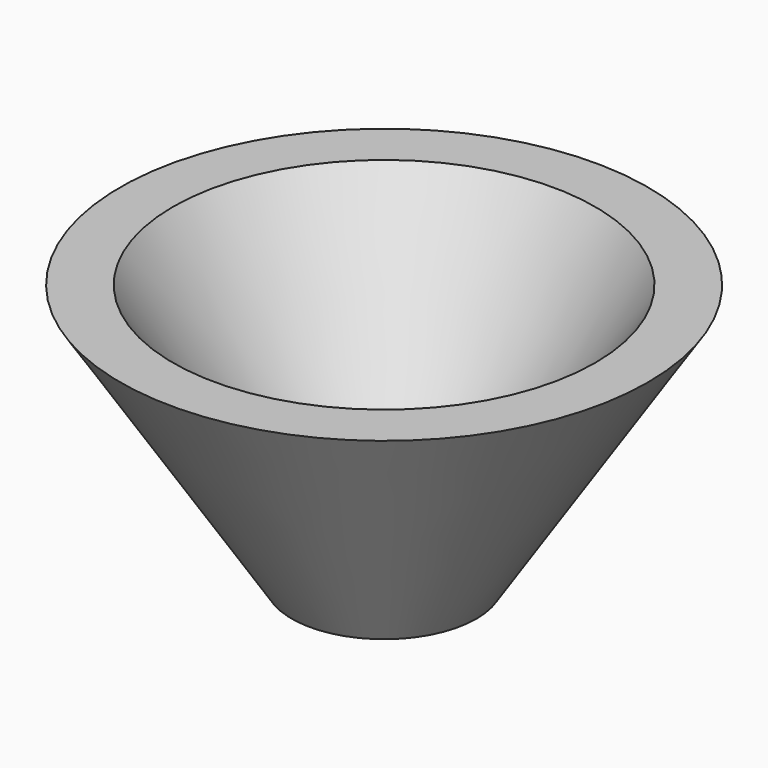
from build123d import *


with BuildPart() as obj1:
    # Cone001 → Cone001 (revolve)
    with BuildSketch(Plane.XZ):
        Polygon((0, 0), (1.5, 0), (8, 10), (0, 10), align=None)
    revolve(axis=Axis((0, 0, 0), (0, 0, 1)))


with BuildPart() as obj2:
    # Cone → Cone (revolve)
    with BuildSketch(Plane.XZ):
        Polygon((0, 0), (3.5, 0), (10, 10), (0, 10), align=None)
    revolve(axis=Axis((0, 0, 0), (0, 0, 1)))

    # Cut: cut obj1
    add(obj1.part, mode=Mode.SUBTRACT)


solid = obj2.part
